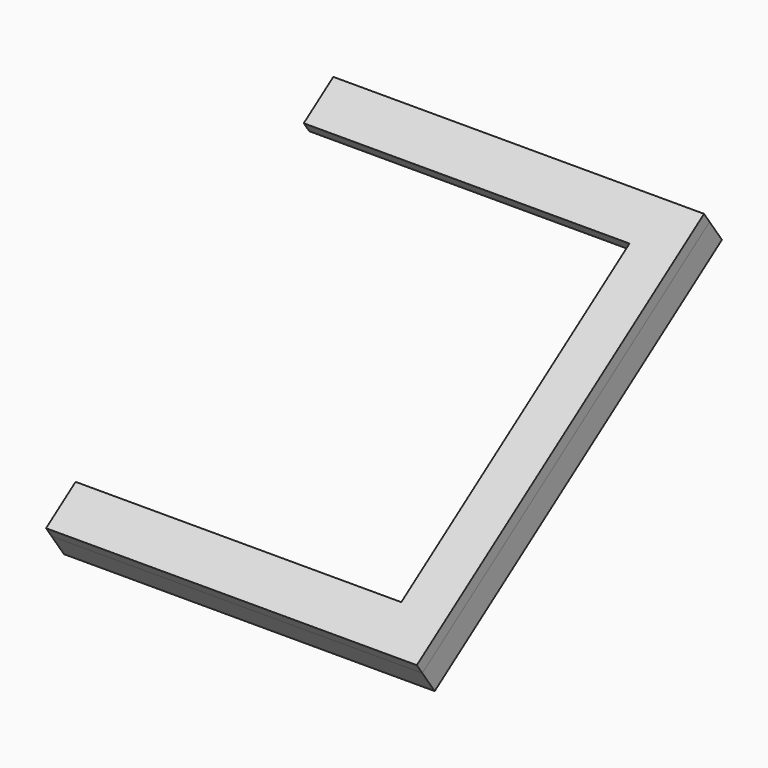
from build123d import *

# Parameters (mm, degrees)
BOX053_W                             = 15
BOX053_H                             = 3
BOX053_DEPTH                         = 6
BOX053_PITCH_ANGLE                   = 45
BOX054_W                             = 15
BOX054_H                             = 3
BOX054_DEPTH                         = 6
BOX054_PITCH_ANGLE                   = -45
BOX052_W                             = 9
BOX052_H                             = 3
BOX052_DEPTH                         = 6
BOX055_W                             = 15
BOX055_H                             = 3
BOX055_DEPTH                         = 6
BOX055_PITCH_ANGLE                   = -90
BOX056_W                             = 15
BOX056_H                             = 3
BOX056_DEPTH                         = 6
BOX056_PITCH_ANGLE                   = -90
SKETCH035_AS_DRAWN_R                 = 2
EXTRUDE033_DEPTH                     = 9
EXTRUDE033_ONTO_SKETCH035_ROLL_ANGLE = 90
EXTRUDE032_DEPTH                     = 4
EXTRUDE032_ONTO_SKETCH034_ROLL_ANGLE = 90
FUSION128_PLACEMENT_ANGLE            = 55


with BuildPart() as nut_hole004:
    # Box053 → Box053 (new body)
    with BuildSketch(Plane.XY):
        with Locations((7.5, 1.5)):
            Rectangle(BOX053_W, BOX053_H)
    extrude(amount=BOX053_DEPTH)


with BuildPart() as nut_hole004_1:
    # Box053 pitch: moved
    add(nut_hole004.part.rotate(Axis((0, 0, 0), (0, 1, 0)), BOX053_PITCH_ANGLE))


with BuildPart() as nut_hole004_2:
    # Box053 placement: moved
    add(nut_hole004_1.part.moved(Location((-81, 5, 130.6))))


with BuildPart() as nut_hole005:
    # Box054 → Box054 (new body)
    with BuildSketch(Plane.XY):
        with Locations((7.5, 1.5)):
            Rectangle(BOX054_W, BOX054_H)
    extrude(amount=BOX054_DEPTH)


with BuildPart() as nut_hole005_1:
    # Box054 pitch: moved
    add(nut_hole005.part.rotate(Axis((0, 0, 0), (0, 1, 0)), BOX054_PITCH_ANGLE))


with BuildPart() as nut_hole005_2:
    # Box054 placement: moved
    add(nut_hole005_1.part.moved(Location((-76.5, 5, -9.25))))


with BuildPart() as nut_hole003:
    # Box052 → Box052 (new body)
    with BuildSketch(Plane(origin=(-80.5, 5, 59.75), x_dir=(1, 0, 0), z_dir=(0, 0, 1))):
        with Locations((4.5, 1.5)):
            Rectangle(BOX052_W, BOX052_H)
    extrude(amount=BOX052_DEPTH)


with BuildPart() as nut_hole006:
    # Box055 → Box055 (new body)
    with BuildSketch(Plane.XY):
        with Locations((7.5, 1.5)):
            Rectangle(BOX055_W, BOX055_H)
    extrude(amount=BOX055_DEPTH)


with BuildPart() as nut_hole006_1:
    # Box055 pitch: moved
    add(nut_hole006.part.rotate(Axis((0, 0, 0), (0, 1, 0)), BOX055_PITCH_ANGLE))


with BuildPart() as nut_hole006_2:
    # Box055 placement: moved
    add(nut_hole006_1.part.moved(Location((23.5, 5, -8.25))))


with BuildPart() as nut_holes_right_dimensions:
    # Box056 → Box056 (new body)
    with BuildSketch(Plane.XY):
        with Locations((7.5, 1.5)):
            Rectangle(BOX056_W, BOX056_H)
    extrude(amount=BOX056_DEPTH)


with BuildPart() as nut_holes_right_dimensions_1:
    # Box056 pitch: moved
    add(nut_holes_right_dimensions.part.rotate(Axis((0, 0, 0), (0, 1, 0)), BOX056_PITCH_ANGLE))


with BuildPart() as nut_holes_right_dimensions_2:
    # Box056 placement: moved
    add(nut_holes_right_dimensions_1.part.moved(Location((23.5, 5, 118.75))))

    # Fusion099: union Nut hole004, Nut hole005, Nut hole003, Nut hole006
    add(nut_hole004_2.part)
    add(nut_hole005_2.part)
    add(nut_hole003.part)
    add(nut_hole006_2.part)


with BuildPart() as nut_holes_right_dimensions_3:
    # Fusion099 placement: moved
    add(nut_holes_right_dimensions_2.part.moved(Location((0, -3, 0))))


with BuildPart() as upper_tablet_holder_002_with_nut_holes:
    # Sketch035 as drawn → Extrude033 (new)
    with BuildSketch(Plane.XY):
        Polygon((-81.020079, 134.137773), (-81.020079, -11.862227), (42.479921, -11.862227), (42.479921, -1.862227), (-71.020079, -1.862227), (-71.020079, 124.137773), (42.479921, 124.137773), (42.479921, 134.137773), align=None)
        with Locations((-76.020079, 129.137773)):
            Circle(SKETCH035_AS_DRAWN_R, mode=Mode.SUBTRACT)
        with Locations((22.479921, 129.137773)):
            Circle(SKETCH035_AS_DRAWN_R, mode=Mode.SUBTRACT)
        with Locations((-76.020079, 61.137773)):
            Circle(SKETCH035_AS_DRAWN_R, mode=Mode.SUBTRACT)
        with Locations((-76.020079, -6.862227)):
            Circle(SKETCH035_AS_DRAWN_R, mode=Mode.SUBTRACT)
        with Locations((22.479921, -6.862227)):
            Circle(SKETCH035_AS_DRAWN_R, mode=Mode.SUBTRACT)
    extrude(amount=-EXTRUDE033_DEPTH)


with BuildPart() as upper_tablet_holder_002_with_nut_holes_1:
    # Extrude033 onto Sketch035 roll: moved
    add(upper_tablet_holder_002_with_nut_holes.part.rotate(Axis((0, 0, 0), (1, 0, 0)), EXTRUDE033_ONTO_SKETCH035_ROLL_ANGLE))


with BuildPart() as upper_tablet_holder_002_with_nut_holes_2:
    # Extrude033 onto Sketch035 placement: moved
    add(upper_tablet_holder_002_with_nut_holes_1.part)


with BuildPart() as upper_tablet_holder_002_with_nut_holes_3:
    # Extrude033 placement: moved
    add(upper_tablet_holder_002_with_nut_holes_2.part.moved(Location((-0.961188, 0.5, 1.685213))))

    # Cut059: cut Nut holes - right dimensions
    add(nut_holes_right_dimensions_3.part, mode=Mode.SUBTRACT)


with BuildPart() as upper_tablet_holder_002_with_nut_holes_4:
    # Cut059 placement: moved
    add(upper_tablet_holder_002_with_nut_holes_3.part.moved(Location((-0.5, 0, 0))))


with BuildPart() as upper_tablet_holder001:
    # Sketch034 as drawn → Extrude032 (new)
    with BuildSketch(Plane.XY):
        Polygon((-82.797703, 136.012411), (-82.797703, -9.987589), (40.702297, -9.987589), (40.702297, 5.012411), (-67.797703, 5.012411), (-67.797703, 121.012411), (40.702297, 121.012411), (40.702297, 136.012411), align=None)
    extrude(amount=-EXTRUDE032_DEPTH)


with BuildPart() as upper_tablet_holder001_1:
    # Extrude032 onto Sketch034 roll: moved
    add(upper_tablet_holder001.part.rotate(Axis((0, 0, 0), (1, 0, 0)), EXTRUDE032_ONTO_SKETCH034_ROLL_ANGLE))


with BuildPart() as upper_tablet_holder001_2:
    # Extrude032 onto Sketch034 placement: moved
    add(upper_tablet_holder001_1.part)


with BuildPart() as upper_tablet_holder001_3:
    # Extrude032 placement: moved
    add(upper_tablet_holder001_2.part.moved(Location((0.307074, -3.5, -0.189426))))

    # Fusion128: union Upper tablet holder 002 with nut holes
    add(upper_tablet_holder_002_with_nut_holes_4.part)


with BuildPart() as upper_tablet_holder001_4:
    # Fusion128 placement: moved
    add(upper_tablet_holder001_3.part.rotate(Axis((0, 0, 0), (-1, 0, 0)), FUSION128_PLACEMENT_ANGLE))


with BuildPart() as upper_tablet_holder_left:
    # Part__Mirroring006: instance of Upper tablet holder001
    add(upper_tablet_holder001_4.part.mirror(Plane(origin=(41.000008, 53.182304, 33.576321), x_dir=(0, -1, 0), z_dir=(1, 0, 0))))


with BuildPart() as upper_tablet_holder_left_1:
    # Part__Mirroring006 placement: moved
    add(upper_tablet_holder_left.part.moved(Location((-37.5, 69.75, 1352.2))))


solid = upper_tablet_holder_left_1.part
